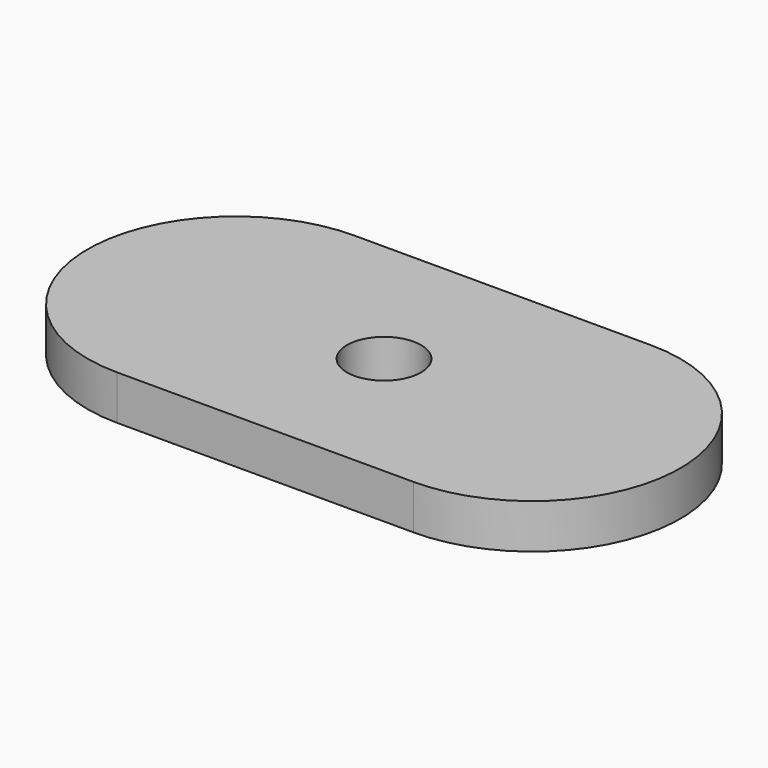
from build123d import *

# Parameters (mm, degrees)
F0_W     = 20
F0_H     = 20
F0_R     = 2.5
F1_DEPTH = 3


with BuildPart() as f1:
    # F0 (on Top) → F1 (new body)
    with BuildSketch(Plane.XY):
        with BuildLine():
            ThreePointArc((-10, 10), (-20, 0), (-10, -10))
            Line((-10, -10), (-10, 10))
        make_face()
        Rectangle(F0_W, F0_H)
        Circle(F0_R, mode=Mode.SUBTRACT)
        with BuildLine():
            Line((10, 10), (10, -10))
            ThreePointArc((10, -10), (20, 0), (10, 10))
        make_face()
    extrude(amount=F1_DEPTH)


solid = f1.part
